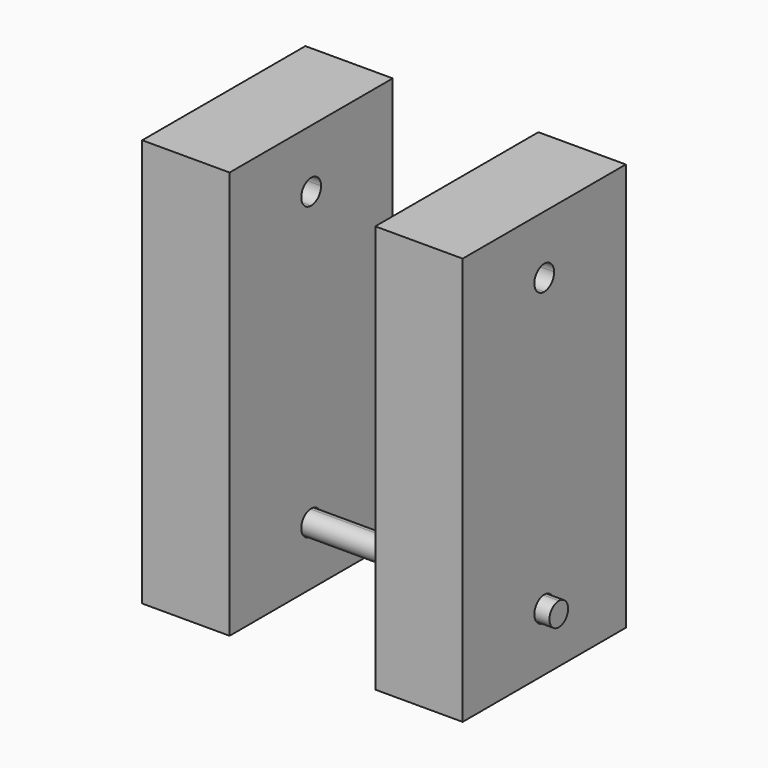
from build123d import *

# Parameters (mm, degrees)
F1_DEPTH = 30
F6_DEPTH = 60


with BuildPart() as f1:
    # F0 (on Right) → F1 (new body)
    with BuildSketch(Plane.YZ):
        with BuildLine():
            ThreePointArc((-4.25, -10), (-3.005204, -6.994796), (0, -5.75))
            ThreePointArc((0, -5.75), (3.005204, -6.994796), (4.25, -10))
            ThreePointArc((4.25, -10), (3.005204, -13.005204), (0, -14.25))
            Line((0, -14.25), (0, -105.75))
            ThreePointArc((0, -105.75), (3.005204, -106.994796), (4.25, -110))
            ThreePointArc((4.25, -110), (3.005204, -113.005204), (0, -114.25))
            ThreePointArc((0, -114.25), (-3.005204, -113.005204), (-4.25, -110))
            Line((-4.25, -110), (-24.212556, -110))
            Line((-24.212556, -110), (-24.212556, -130))
            Line((-24.212556, -130), (35, -130))
            Line((35, -130), (35, 10))
            Line((35, 10), (-10.587733, 10))
            Line((-10.587733, 10), (-10.587733, -10))
            Line((-10.587733, -10), (-4.25, -10))
        make_face()
        with BuildLine():
            ThreePointArc((0, -14.25), (-3.005204, -13.005204), (-4.25, -10))
            Line((-4.25, -10), (-10.587733, -10))
            Line((-10.587733, -10), (-10.587733, 10))
            Line((-10.587733, 10), (-35, 10))
            Line((-35, 10), (-35, -130))
            Line((-35, -130), (-24.212556, -130))
            Line((-24.212556, -130), (-24.212556, -110))
            Line((-24.212556, -110), (-4.25, -110))
            ThreePointArc((-4.25, -110), (-3.005204, -106.994796), (0, -105.75))
            Line((0, -105.75), (0, -14.25))
        make_face()
    extrude(amount=F1_DEPTH)


with BuildPart() as f2_1:
    # F2: copy of F1
    add(f1.part.moved(Location((-30, 0, 0))))


with BuildPart() as f2_1_1:
    # F3: moved
    add(f2_1.part.moved(Location((-25, 0, 0))))


with BuildPart() as f1_1:
    # F4: moved
    add(f1.part.moved(Location((25, 0, 0))))


with BuildPart() as f6:
    # F5 (on Right) → F6 (new body, symmetric)
    with BuildSketch(Plane.YZ):
        with BuildLine():
            ThreePointArc((0, -106), (-2.828427, -112.828427), (4, -110))
            ThreePointArc((4, -110), (2.828427, -107.171573), (0, -106))
        make_face()
    extrude(amount=F6_DEPTH, both=True)


solid = Compound([f2_1_1.part, f1_1.part, f6.part])
